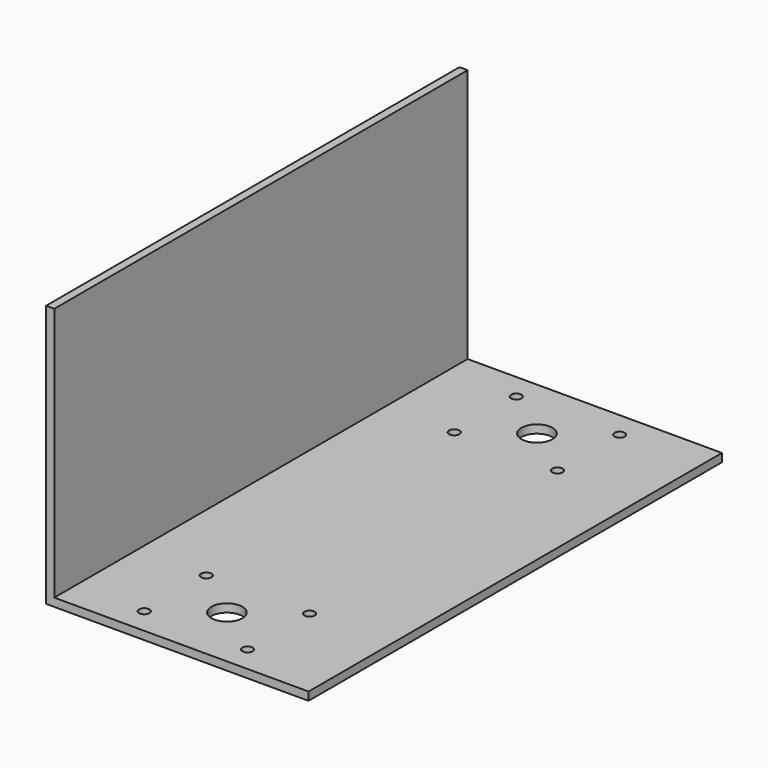
from build123d import *

# Parameters (mm, degrees)
F1_DEPTH = 100
F2_R     = 1
F2_R_2   = 3
F3_DEPTH = 50.801


with BuildPart() as f1:
    # F0 (on Front) → F1 (new body)
    with BuildSketch(Plane.XZ):
        Polygon((0, 50.8), (0, 0), (50.8, 0), (50.8, 1.59), (1.59, 1.59), (1.59, 50.8), align=None)
    extrude(amount=F1_DEPTH)

    # F2 (on Top) → F3 (cut, through all)
    with BuildSketch(Plane.XY):
        with Locations((15, -5)):
            Circle(F2_R)
        with Locations((35, -5)):
            Circle(F2_R)
        with Locations((15, -20)):
            Circle(F2_R)
        with Locations((35, -20)):
            Circle(F2_R)
        with Locations((35, -80)):
            Circle(F2_R)
        with Locations((15, -80)):
            Circle(F2_R)
        with Locations((35, -95)):
            Circle(F2_R)
        with Locations((15, -95)):
            Circle(F2_R)
        with Locations((25, -87.5)):
            Circle(F2_R_2)
        with Locations((25, -12.5)):
            Circle(F2_R_2)
    extrude(amount=F3_DEPTH, mode=Mode.SUBTRACT)


solid = f1.part
